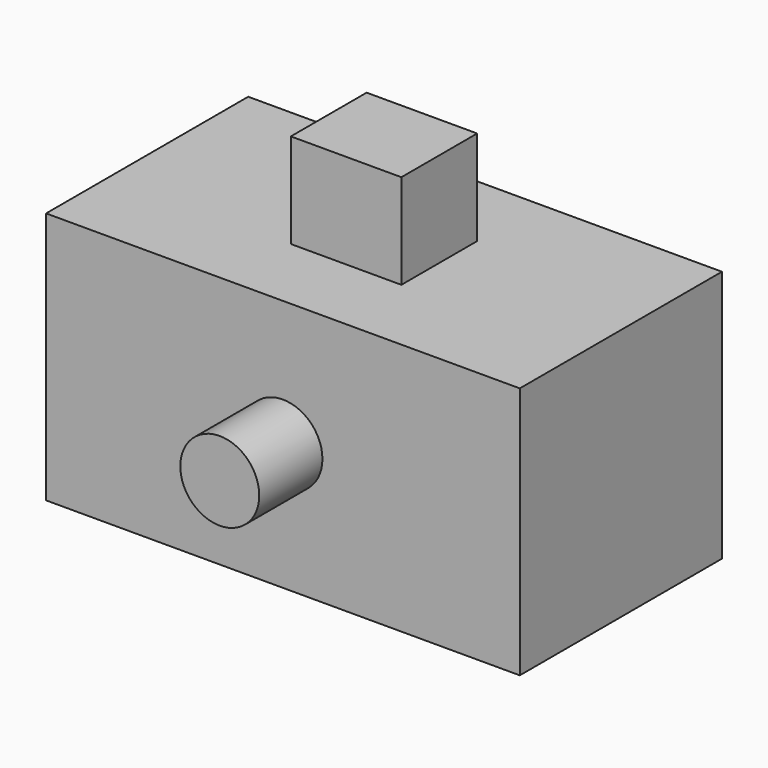
from build123d import *

# Parameters (mm, degrees)
F0_W     = 30
F0_H     = 16
F1_DEPTH = 16
F2_W     = 7
F2_H     = 6
F3_DEPTH = 6
F4_R     = 2.5
F5_DEPTH = 5


with BuildPart() as f1:
    # F0 (on Top) → F1 (new body)
    with BuildSketch(Plane.XY):
        with Locations((15, -8)):
            Rectangle(F0_W, F0_H)
    extrude(amount=F1_DEPTH)

    # F2 (on face) → F3 (join)
    with BuildSketch(Plane.XY.offset(16)):
        with Locations((15, -8)):
            Rectangle(F2_W, F2_H)
    extrude(amount=F3_DEPTH)

    # F4 (on face) → F5 (join)
    with BuildSketch(Plane.XZ.offset(16)):
        with Locations((15, 8)):
            Circle(F4_R)
    extrude(amount=F5_DEPTH)


solid = f1.part
